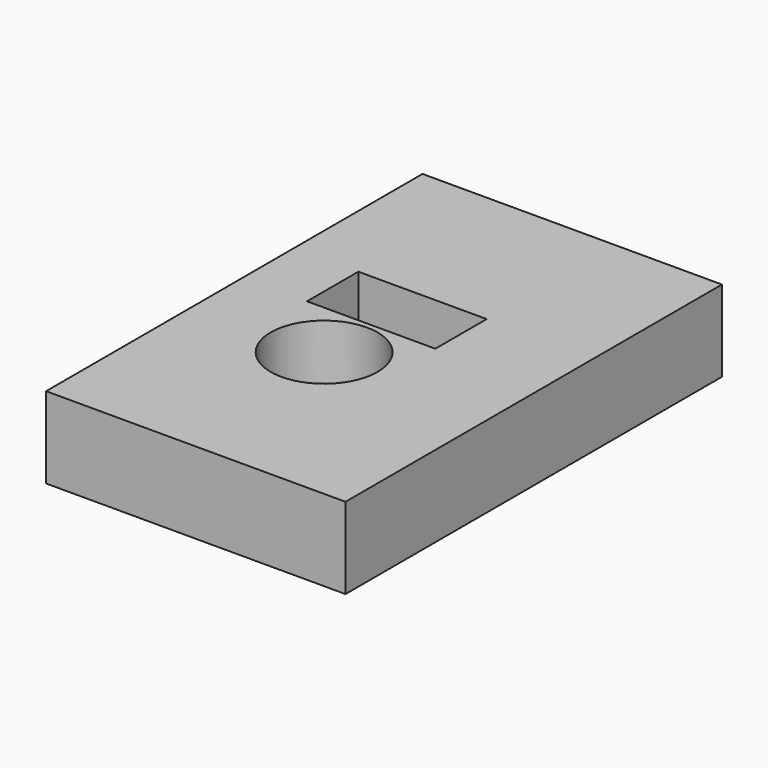
from build123d import *

# Parameters (mm, degrees)
F0_W     = 28
F0_H     = 44
F1_DEPTH = 7.6
F2_R     = 5
F2_W     = 12
F2_H     = 6
F3_DEPTH = 7.601


with BuildPart() as f1:
    # F0 (on Top) → F1 (new body)
    with BuildSketch(Plane.XY):
        with Locations((14, 22)):
            Rectangle(F0_W, F0_H)
    extrude(amount=F1_DEPTH)

    # F2 (on face) → F3 (cut, through all)
    with BuildSketch(Plane.XY.offset(7.6)):
        with Locations((12, 17.5)):
            Circle(F2_R)
        with Locations((12, 26)):
            Rectangle(F2_W, F2_H)
    extrude(amount=-F3_DEPTH, mode=Mode.SUBTRACT)


solid = f1.part
